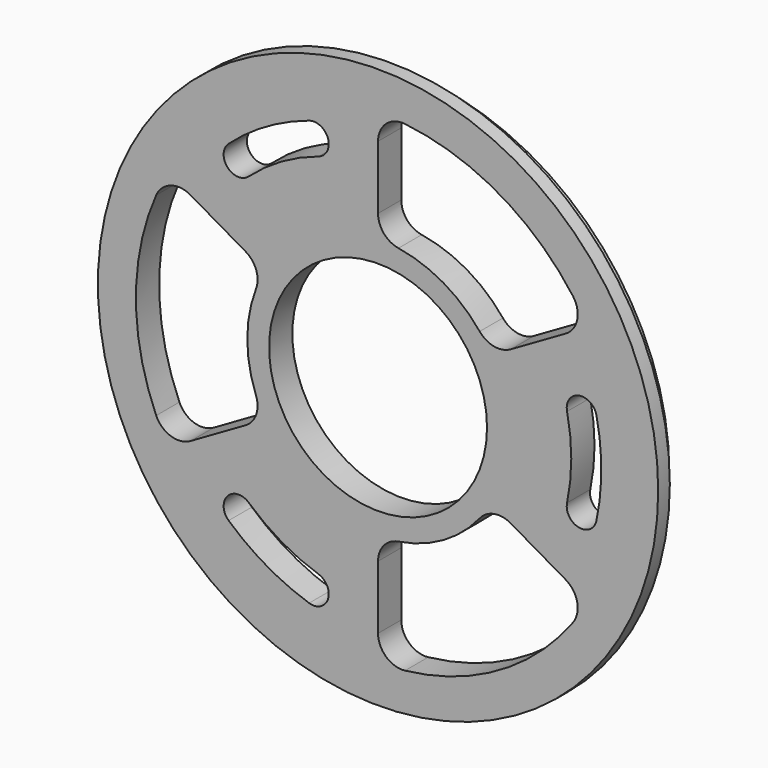
from build123d import *

# Parameters (mm, degrees)
F0_R     = 57.85
F0_R_2   = 22.5
F1_DEPTH = 6
F2_R     = 57.85
F2_R_2   = 55.35
F3_DEPTH = 3


with BuildPart() as f1:
    # F0 (on Front) → F1 (new body)
    with BuildSketch(Plane.XZ):
        Circle(F0_R)
        with BuildLine():
            ThreePointArc((-12.320414, -37.950196), (-10.329128, -41.855933), (-14.234864, -43.847219))
            ThreePointArc((-14.234864, -43.847219), (-23.05, -39.923771), (-30.855373, -34.251364))
            ThreePointArc((-30.855373, -34.251364), (-31.083737, -29.873254), (-26.705627, -29.64489))
            ThreePointArc((-26.705627, -29.64489), (-19.95, -34.554414), (-12.320414, -37.950196))
        make_face(mode=Mode.SUBTRACT)
        with BuildLine():
            ThreePointArc((-27.372431, 15.803481), (-25.159068, 13.141948), (-25.204864, 9.680642))
            ThreePointArc((-25.204864, 9.680642), (-27, 0), (-25.204864, -9.680642))
            ThreePointArc((-25.204864, -9.680642), (-25.159068, -13.141948), (-27.372431, -15.803481))
            Line((-27.372431, -15.803481), (-38.729833, -22.36068))
            ThreePointArc((-38.729833, -22.36068), (-42.790653, -22.780694), (-45.810926, -20.033948))
            ThreePointArc((-45.810926, -20.033948), (-50, 0), (-45.810926, 20.033948))
            ThreePointArc((-45.810926, 20.033948), (-42.790653, 22.780694), (-38.729833, 22.36068))
            Line((-38.729833, 22.36068), (-27.372431, 15.803481))
        make_face(mode=Mode.SUBTRACT)
        Circle(F0_R_2, mode=Mode.SUBTRACT)
        with BuildLine():
            Line((0, -44.72136), (0, -31.606961))
            ThreePointArc((0, -31.606961), (1.198273, -28.359366), (4.21875, -26.668374))
            ThreePointArc((4.21875, -26.668374), (13.5, -23.382686), (20.986114, -16.987731))
            ThreePointArc((20.986114, -16.987731), (23.960795, -15.217418), (27.372431, -15.803481))
            Line((27.372431, -15.803481), (38.729833, -22.36068))
            ThreePointArc((38.729833, -22.36068), (41.123986, -25.667445), (40.255371, -29.656452))
            ThreePointArc((40.255371, -29.656452), (25, -43.30127), (5.555556, -49.690399))
            ThreePointArc((5.555556, -49.690399), (1.666667, -48.44814), (0, -44.72136))
        make_face(mode=Mode.SUBTRACT)
        with BuildLine():
            ThreePointArc((45.090238, 9.595855), (46.1, 0), (45.090238, -9.595855))
            ThreePointArc((45.090238, -9.595855), (41.412865, -11.982679), (39.026041, -8.305306))
            ThreePointArc((39.026041, -8.305306), (39.9, 0), (39.026041, 8.305306))
            ThreePointArc((39.026041, 8.305306), (41.412865, 11.982679), (45.090238, 9.595855))
        make_face(mode=Mode.SUBTRACT)
        with BuildLine():
            ThreePointArc((-30.855373, 34.251364), (-23.05, 39.923771), (-14.234864, 43.847219))
            ThreePointArc((-14.234864, 43.847219), (-10.329128, 41.855933), (-12.320414, 37.950196))
            ThreePointArc((-12.320414, 37.950196), (-19.95, 34.554414), (-26.705627, 29.64489))
            ThreePointArc((-26.705627, 29.64489), (-31.083737, 29.873254), (-30.855373, 34.251364))
        make_face(mode=Mode.SUBTRACT)
        with BuildLine():
            ThreePointArc((20.986114, 16.987731), (13.5, 23.382686), (4.21875, 26.668374))
            ThreePointArc((4.21875, 26.668374), (1.198273, 28.359366), (0, 31.606961))
            Line((0, 31.606961), (0, 44.72136))
            ThreePointArc((0, 44.72136), (1.666667, 48.44814), (5.555556, 49.690399))
            ThreePointArc((5.555556, 49.690399), (25, 43.30127), (40.255371, 29.656452))
            ThreePointArc((40.255371, 29.656452), (41.123986, 25.667445), (38.729833, 22.36068))
            Line((38.729833, 22.36068), (27.372431, 15.803481))
            ThreePointArc((27.372431, 15.803481), (23.960795, 15.217418), (20.986114, 16.987731))
        make_face(mode=Mode.SUBTRACT)
    extrude(amount=F1_DEPTH)

    # F2 (on face) → F3 (cut)
    with BuildSketch(Plane(origin=(0, 0, 0), x_dir=(-1, 0, 0), z_dir=(0, 1, 0))):
        Circle(F2_R)
        Circle(F2_R_2, mode=Mode.SUBTRACT)
    extrude(amount=-F3_DEPTH, mode=Mode.SUBTRACT)


solid = f1.part
